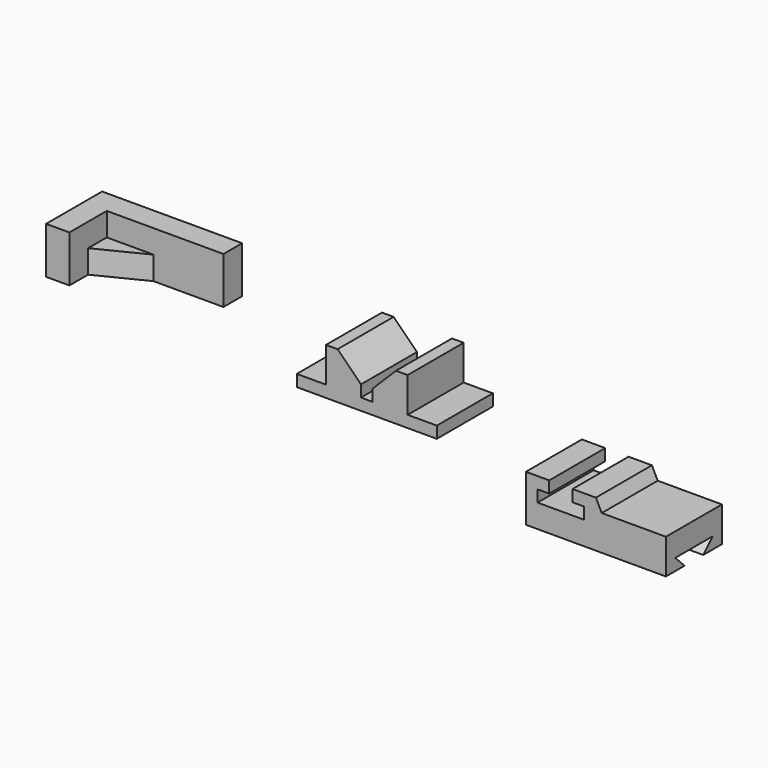
from build123d import *

# Parameters (mm, degrees)
F0_W      = 25.4
F0_H      = 50.8
F1_DEPTH  = 76.2
F2_W      = 127
F2_H      = 50.8
F2_W_2    = 25.4
F3_DEPTH  = 25.4
F5_DEPTH  = 25.4
F7_DEPTH  = 76.2
F9_DEPTH  = 76.2
F11_DEPTH = 152.4


with BuildPart() as f1:
    # F0 (on Front) → F1 (new body)
    with BuildSketch(Plane.XZ):
        with Locations((12.7, 25.4)):
            Rectangle(F0_W, F0_H)
    extrude(amount=F1_DEPTH)

    # F2 (on face) → F3 (join)
    with BuildSketch(Plane(origin=(0, 0, 0), x_dir=(-1, 0, 0), z_dir=(0, 1, 0))):
        with Locations((-88.9, 25.4)):
            Rectangle(F2_W, F2_H)
        with Locations((-12.7, 25.4)):
            Rectangle(F2_W_2, F2_H)
    extrude(amount=-F3_DEPTH)

    # F4 (on Top) → F5 (join)
    with BuildSketch(Plane.XY):
        Polygon((76.2, -25.4), (25.4, -25.4), (25.4, -50.8), align=None)
    extrude(amount=F5_DEPTH)


with BuildPart() as f7:
    # F6 (on face) → F7 (new body)
    with BuildSketch(Plane.XZ.offset(25.4)):
        Polygon((293.148958, 12.7), (293.148958, 0), (445.548958, 0), (445.548958, 12.7), (413.798958, 12.7), (413.798958, 50.8), (401.098958, 50.8), (375.698958, 25.4), (375.698958, 12.7), (362.998958, 12.7), (362.998958, 25.4), (337.598958, 50.8), (324.898958, 50.8), (324.898958, 12.7), align=None)
    extrude(amount=F7_DEPTH)


with BuildPart() as f9:
    # F8 (on face) → F9 (new body)
    with BuildSketch(Plane.XZ.offset(101.6)):
        Polygon((603.416416, 50.8), (603.416416, 0), (755.816416, 0), (755.816416, 38.1), (685.966416, 38.1), (679.616416, 50.8), (654.216416, 50.8), (654.216416, 38.1), (666.916416, 38.1), (666.916416, 25.4), (616.116416, 25.4), (616.116416, 38.1), (628.816416, 38.1), (628.816416, 50.8), align=None)
    extrude(amount=F9_DEPTH)

    # F10 (on face) → F11 (cut)
    with BuildSketch(Plane.YZ.offset(755.816416)):
        Polygon((-165.1, 12.7), (-152.4, 0), (-127, 0), (-114.3, 12.7), (-139.7, 12.7), align=None)
    extrude(amount=-F11_DEPTH, mode=Mode.SUBTRACT)


solid = Compound([f1.part, f7.part, f9.part])
